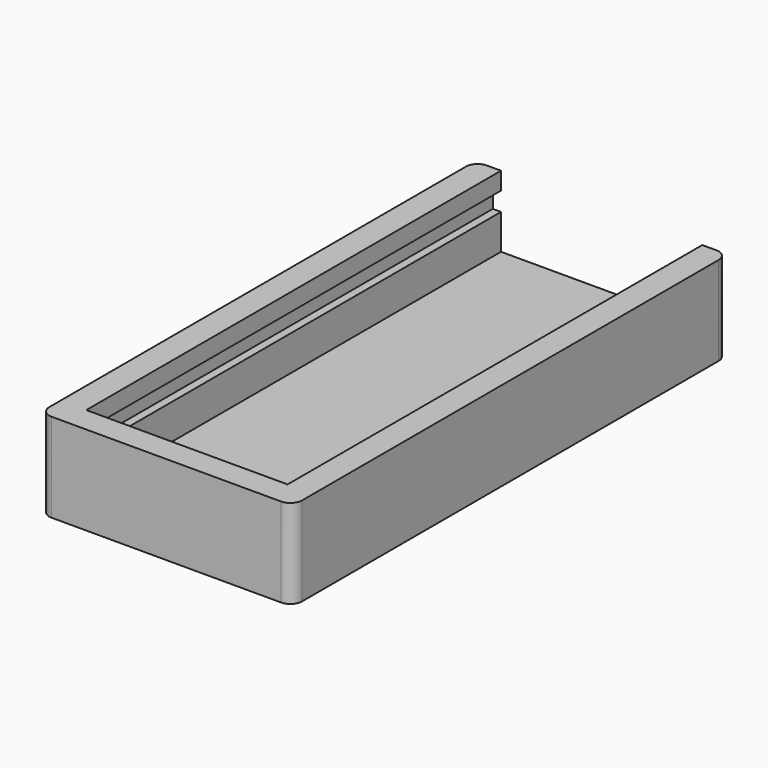
from build123d import *

# Parameters (mm, degrees)
CYLINDER_R       = 0.6
CYLINDER_DEPTH   = 10
ARRAY001_X_COUNT = 2
ARRAY001_X_PITCH = 15
BOX007_W         = 18.6
BOX007_H         = 45
BOX007_DEPTH     = 1.6
BOX006_W         = 17.2
BOX006_H         = 45.1
BOX006_DEPTH     = 6.1
BOX_W            = 21.6
BOX_H            = 46.5
BOX_DEPTH        = 7.6
FILLET_R         = 1
BOX008_W         = 3
BOX008_H         = 3
BOX008_DEPTH     = 4.5
ARRAY_X_COUNT    = 2
ARRAY_X_PITCH    = 15


with BuildPart() as hole_array001:
    # Cylinder → Cylinder (new body)
    with BuildSketch(Plane.XY):
        Circle(CYLINDER_R)
    extrude(amount=CYLINDER_DEPTH)

    # Array001 X: hole array001 ×2


with BuildPart() as hole_array001_1:
    add(hole_array001.part)
    with Locations(*[(i * ARRAY001_X_PITCH, 0, 0) for i in range(1, ARRAY001_X_COUNT)]):
        add(hole_array001.part)


with BuildPart() as hole_array001_2:
    # Array001 placement: moved
    add(hole_array001_1.part.moved(Location((3.3, 4, 0))))


with BuildPart() as pcb_extract_cube:
    # Box007 → Box007 (new body)
    with BuildSketch(Plane(origin=(1.5, 1.5, 4.5), x_dir=(1, 0, 0), z_dir=(0, 0, 1))):
        with Locations((9.3, 22.5)):
            Rectangle(BOX007_W, BOX007_H)
    extrude(amount=BOX007_DEPTH)


with BuildPart() as extract_fusion:
    # Box006 → Box006 (new body)
    with BuildSketch(Plane(origin=(2.2, 2.2, 1.5), x_dir=(1, 0, 0), z_dir=(0, 0, 1))):
        with Locations((8.6, 22.55)):
            Rectangle(BOX006_W, BOX006_H)
    extrude(amount=BOX006_DEPTH)

    # Fusion: union pcb extract cube
    add(pcb_extract_cube.part)


with BuildPart() as body_cut004:
    # Box → Box (new body)
    with BuildSketch(Plane.XY):
        with Locations((10.8, 23.25)):
            Rectangle(BOX_W, BOX_H)
    extrude(amount=BOX_DEPTH)

    # Fillet
    fillet_edges = [body_cut004.edges().sort_by_distance(p)[0] for p in [
        (0, 0, 3.8),
        (0, 46.5, 3.8),
        (21.6, 0, 3.8),
        (21.6, 46.5, 3.8),
    ]]
    fillet(fillet_edges, radius=FILLET_R)

    # Cut003007: cut extract fusion
    add(extract_fusion.part, mode=Mode.SUBTRACT)


with BuildPart() as body_cut005:
    # Box008 → Box008 (new body)
    with BuildSketch(Plane(origin=(-1.5, -1.5, 0), x_dir=(1, 0, 0), z_dir=(0, 0, 1))):
        with Locations((1.5, 1.5)):
            Rectangle(BOX008_W, BOX008_H)
    extrude(amount=BOX008_DEPTH)

    # Array X: body cut005 ×2


with BuildPart() as body_cut005_1:
    add(body_cut005.part)
    with Locations(*[(i * ARRAY_X_PITCH, 0, 0) for i in range(1, ARRAY_X_COUNT)]):
        add(body_cut005.part)


with BuildPart() as body_cut005_2:
    # Array placement: moved
    add(body_cut005_1.part.moved(Location((3.3, 4, 0))))

    # Fusion006: union body cut004
    add(body_cut004.part)

    # Cut003008: cut hole array001
    add(hole_array001_2.part, mode=Mode.SUBTRACT)


solid = body_cut005_2.part
